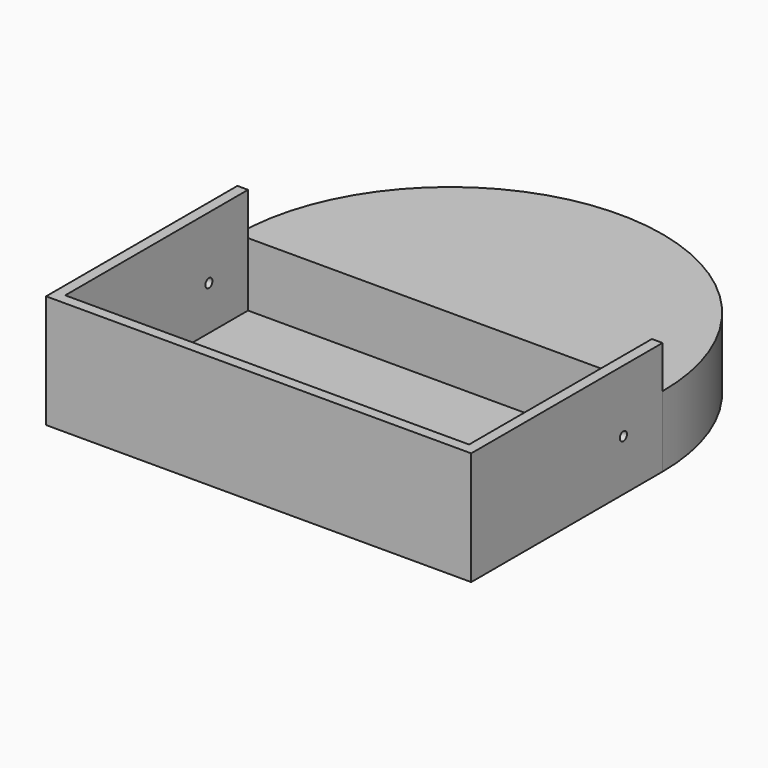
from build123d import *

# Parameters (mm, degrees)
F1_DEPTH = 2.54
F3_DEPTH = 22.86
F5_DEPTH = 38.1
F6_R     = 1.5875
F7_DEPTH = 254


with BuildPart() as f1:
    # F0 (on Top) → F1 (new body)
    with BuildSketch(Plane.XY):
        with BuildLine():
            Line((-152.4, 0), (0, 0))
            Line((0, 0), (0, 85.725))
            ThreePointArc((0, 85.725), (-76.2, 9.525), (-152.4, 85.725))
            Line((-152.4, 85.725), (-152.4, 0))
        make_face()
        with BuildLine():
            ThreePointArc((-152.4, 85.725), (-76.2, 9.525), (0, 85.725))
            Line((0, 85.725), (-152.4, 85.725))
        make_face()
        with BuildLine():
            Line((-152.4, 85.725), (0, 85.725))
            ThreePointArc((0, 85.725), (-76.2, 161.925), (-152.4, 85.725))
        make_face()
    extrude(amount=F1_DEPTH)

    # F2 (on face) → F3 (join)
    with BuildSketch(Plane.XY.offset(2.54)):
        with BuildLine():
            Line((-152.4, 85.725), (0, 85.725))
            ThreePointArc((0, 85.725), (-76.2, 161.925), (-152.4, 85.725))
        make_face()
    extrude(amount=F3_DEPTH)

    # F4 (on face) → F5 (join)
    with BuildSketch(Plane.XY.offset(2.54)):
        Polygon((-3.81, 3.81), (-148.59, 3.81), (-148.59, 85.725), (-152.4, 85.725), (-152.4, 0), (0, 0), (0, 85.725), (-3.81, 85.725), align=None)
    extrude(amount=F5_DEPTH)

    # F6 (on face) → F7 (cut, symmetric)
    with BuildSketch(Plane(origin=(-152.4, 0, 0), x_dir=(0, -1, 0), z_dir=(-1, 0, 0))):
        with Locations((-68.1915506721, 18.3263123035)):
            Circle(F6_R)
    extrude(amount=F7_DEPTH, both=True, mode=Mode.SUBTRACT)


solid = f1.part
